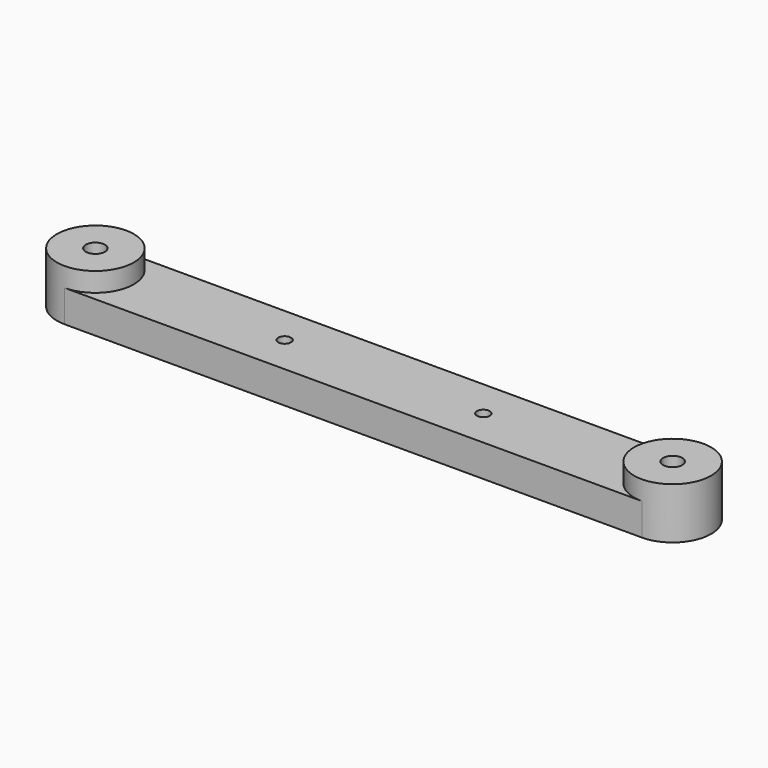
from build123d import *

# Parameters (mm, degrees)
SKETCH_R      = 1.5
SKETCH_R_2    = 1
PAD_DEPTH     = 5
SKETCH001_R   = 6
SKETCH001_R_2 = 1.5
PAD001_DEPTH  = 3


with BuildPart() as part:
    # Sketch → Pad (new body)
    with BuildSketch(Plane.XY):
        with BuildLine():
            ThreePointArc((-45, 6), (-51, 0), (-45, -6))
            Line((-45, -6), (0, -6))
            Line((0, -6), (0, 6))
            Line((-45, 6), (0, 6))
        make_face()
        with Locations((-45, 0)):
            Circle(SKETCH_R, mode=Mode.SUBTRACT)
        with Locations((-15.5, 0)):
            Circle(SKETCH_R_2, mode=Mode.SUBTRACT)
    extrude(amount=PAD_DEPTH)

    # Sketch001 (on Face8 of Pad) → Pad001 (join)
    with BuildSketch(Plane.XY.offset(5)):
        with Locations((-45, 0)):
            Circle(SKETCH001_R)
        with Locations((-45, 0)):
            Circle(SKETCH001_R_2, mode=Mode.SUBTRACT)
    extrude(amount=PAD001_DEPTH)

    # Mirrored: part across Sketch001 V_Axis


with BuildPart() as part_1:
    add(part.part)
    add(part.part.mirror(Plane(origin=(0, 0, 5), x_dir=(0, 0, 1), z_dir=(1, 0, 0))))


solid = part_1.part
